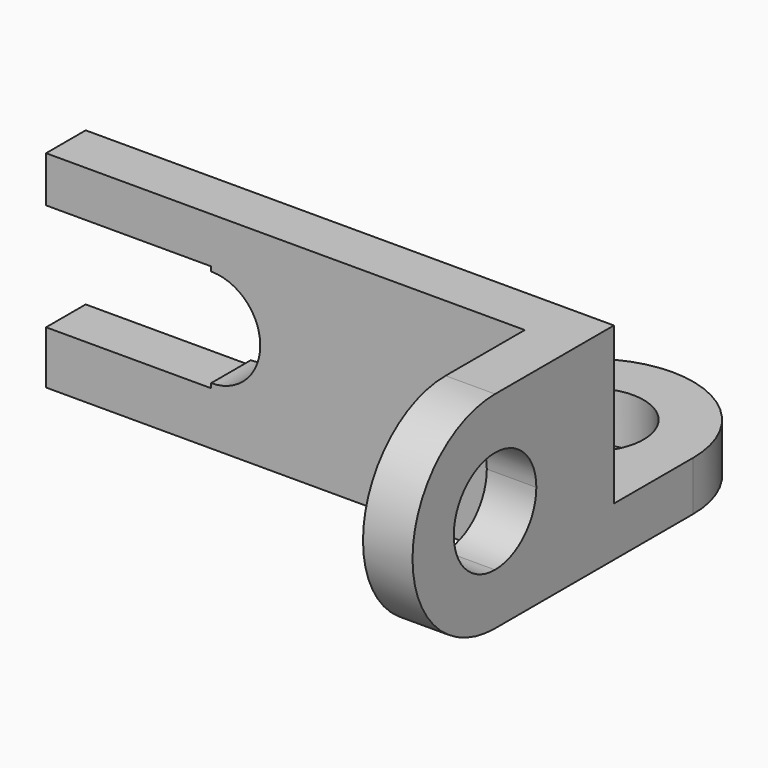
from build123d import *

# Parameters (mm, degrees)
F1_DEPTH = 6
F3_DEPTH = 6
F4_W     = 25
F4_H     = 12
F4_H_2   = 18
F5_DEPTH = 6
F6_D     = 13


with BuildPart() as f1:
    # F0 (on Front) → F1 (new body)
    with BuildSketch(Plane.XZ):
        with BuildLine():
            Line((36.0888135582, -12.9309209585), (36.0888135582, 12.0690790415))
            Line((36.0888135582, 12.0690790415), (-27.9111864418, 12.0690790415))
            Line((-27.9111864418, 12.0690790415), (-27.9111864418, 6.5))
            Line((-27.9111864418, 6.5), (-7.9111864418, 6.5))
            Line((-7.9111864418, 6.5), (-7.9111864418, 5.9503926081))
            ThreePointArc((-7.9111864418, 5.9503926081), (-3.7036234779, 4.2075629639), (-1.9607938337, 0))
            ThreePointArc((-1.9607938337, 0), (-3.7036234779, -4.2075629639), (-7.9111864418, -5.9503926081))
            Line((-7.9111864418, -5.9503926081), (-7.9111864418, -6.5))
            Line((-7.9111864418, -6.5), (-27.9111864418, -6.5))
            Line((-27.9111864418, -6.5), (-27.9111864418, -12.9309209585))
            Line((-27.9111864418, -12.9309209585), (36.0888135582, -12.9309209585))
        make_face()
    extrude(amount=F1_DEPTH)

    # F2 (on face) → F3 (join)
    with BuildSketch(Plane.YZ.offset(36.0888135582)):
        with BuildLine():
            Line((0, -12.9309209585), (0, 12.0690790415))
            Line((0, 12.0690790415), (-18, 12.0690790415))
            ThreePointArc((-18, 12.0690790415), (-9.1611652352, 8.4079138063), (-5.5, -0.4309209585))
            ThreePointArc((-5.5, -0.4309209585), (-9.1611652352, -9.2697557234), (-18, -12.9309209585))
            Line((-18, -12.9309209585), (0, -12.9309209585))
        make_face()
        with BuildLine():
            ThreePointArc((-5.5, -0.4309209585), (-9.1611652352, 8.4079138063), (-18, 12.0690790415))
            Line((-18, 12.0690790415), (-18, 5.8190790415))
            ThreePointArc((-18, 5.8190790415), (-13.5805826176, 3.9884964239), (-11.75, -0.4309209585))
            ThreePointArc((-11.75, -0.4309209585), (-13.5805826176, -4.8503383409), (-18, -6.6809209585))
            Line((-18, -6.6809209585), (-18, -12.9309209585))
            ThreePointArc((-18, -12.9309209585), (-9.1611652352, -9.2697557234), (-5.5, -0.4309209585))
        make_face()
        with BuildLine():
            Line((-18, 5.8190790415), (-18, 12.0690790415))
            ThreePointArc((-18, 12.0690790415), (-30.5, -0.4309209585), (-18, -12.9309209585))
            Line((-18, -12.9309209585), (-18, -6.6809209585))
            ThreePointArc((-18, -6.6809209585), (-24.25, -0.4309209585), (-18, 5.8190790415))
        make_face()
    extrude(amount=-F3_DEPTH)

    # F4 (on face) → F5 (join)
    with BuildSketch(Plane(origin=(0, 0, -12.9309209585), x_dir=(1, 0, 0), z_dir=(0, 0, -1))):
        with Locations((23.5888135582, -6)):
            Rectangle(F4_W, F4_H)
        with Locations((23.5888135582, -3)):
            Rectangle(F4_W, F4_H_2)
        with BuildLine():
            ThreePointArc((11.0888135582, -12), (23.5888135582, -24.5), (36.0888135582, -12))
            Line((36.0888135582, -12), (11.0888135582, -12))
        make_face()
    extrude(amount=-F5_DEPTH)

    # F6 (through all)
    with Locations(Plane(origin=(0, 0, -12.9309209585), x_dir=(1, 0, 0), z_dir=(0, 0, -1))):
        with Locations((23.5888135582, -12)):
            Hole(F6_D / 2)


solid = f1.part
